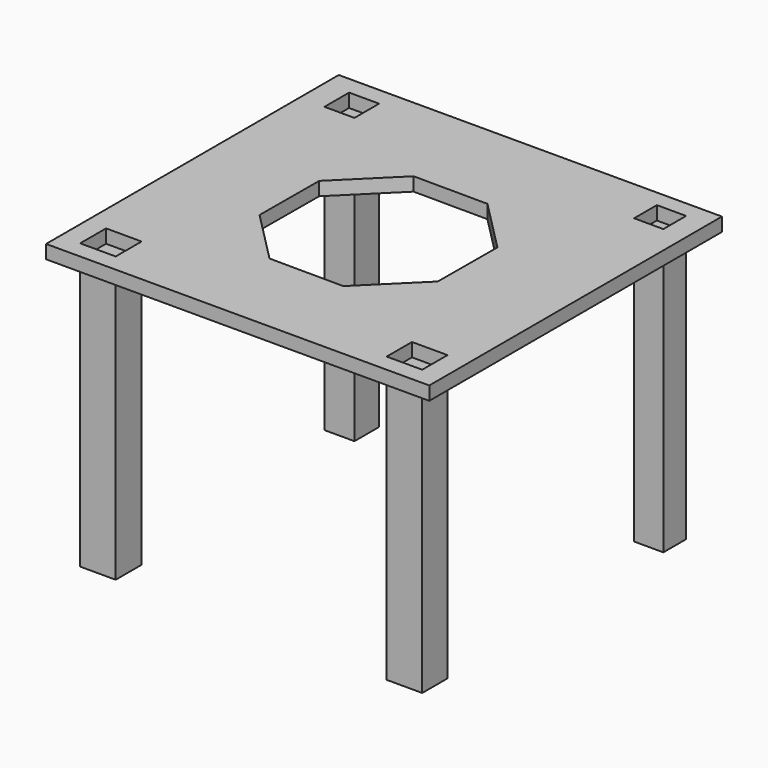
from build123d import *

# Parameters (mm, degrees)
F0_W     = 141.36558
F0_H     = 134.953111
F0_W_2   = 13.116393
F0_H_2   = 11.950489
F0_W_3   = 13.116396
F0_H_3   = 11.659436
F0_W_4   = 11.076067
F0_H_4   = 11.367541
F0_W_5   = 10.792881
F0_H_5   = 10.500871
F1_DEPTH = 5
F2_DEPTH = 5
F3_DEPTH = 100


with BuildPart() as f1:
    # F0 (on Top) → F1 (new body)
    with BuildSketch(Plane.XY):
        with Locations((0.874426, 1.457378)):
            Rectangle(F0_W, F0_H)
        with Locations((-55.817543, -53.631475)):
            Rectangle(F0_W_2, F0_H_2, mode=Mode.SUBTRACT)
        Polygon((-32.936722, 13.845082), (-13.499828, 33.079731), (13.845082, 32.936722), (33.079731, 13.499828), (32.936722, -13.845082), (13.499828, -33.079731), (-13.845082, -32.936722), (-33.079731, -13.499828), align=None, mode=Mode.SUBTRACT)
        with Locations((57.274919, -53.778503)):
            Rectangle(F0_W_3, F0_H_3, mode=Mode.SUBTRACT)
        with Locations((-55.088853, 56.546231)):
            Rectangle(F0_W_4, F0_H_4, mode=Mode.SUBTRACT)
        with Locations((57.862371, 57.541772)):
            Rectangle(F0_W_5, F0_H_5, mode=Mode.SUBTRACT)
    extrude(amount=F1_DEPTH)

    # F0 (on Top) → F2 (join)
    with BuildSketch(Plane.XY):
        with Locations((0.874426, 1.457378)):
            Rectangle(F0_W, F0_H)
        with Locations((-55.817543, -53.631475)):
            Rectangle(F0_W_2, F0_H_2, mode=Mode.SUBTRACT)
        Polygon((-32.936722, 13.845082), (-13.499828, 33.079731), (13.845082, 32.936722), (33.079731, 13.499828), (32.936722, -13.845082), (13.499828, -33.079731), (-13.845082, -32.936722), (-33.079731, -13.499828), align=None, mode=Mode.SUBTRACT)
        with Locations((57.274919, -53.778503)):
            Rectangle(F0_W_3, F0_H_3, mode=Mode.SUBTRACT)
        with Locations((-55.088853, 56.546231)):
            Rectangle(F0_W_4, F0_H_4, mode=Mode.SUBTRACT)
        with Locations((57.862371, 57.541772)):
            Rectangle(F0_W_5, F0_H_5, mode=Mode.SUBTRACT)
    extrude(amount=F2_DEPTH)


with BuildPart() as f3:
    # F0 (on Top) → F3 (new body)
    with BuildSketch(Plane.XY):
        with Locations((-55.088853, 56.546231)):
            Rectangle(F0_W_4, F0_H_4)
        with Locations((-55.817543, -53.631475)):
            Rectangle(F0_W_2, F0_H_2)
        with Locations((57.274919, -53.778503)):
            Rectangle(F0_W_3, F0_H_3)
        with Locations((57.862371, 57.541772)):
            Rectangle(F0_W_5, F0_H_5)
    extrude(amount=-F3_DEPTH)


solid = Compound([f1.part, f3.part])
